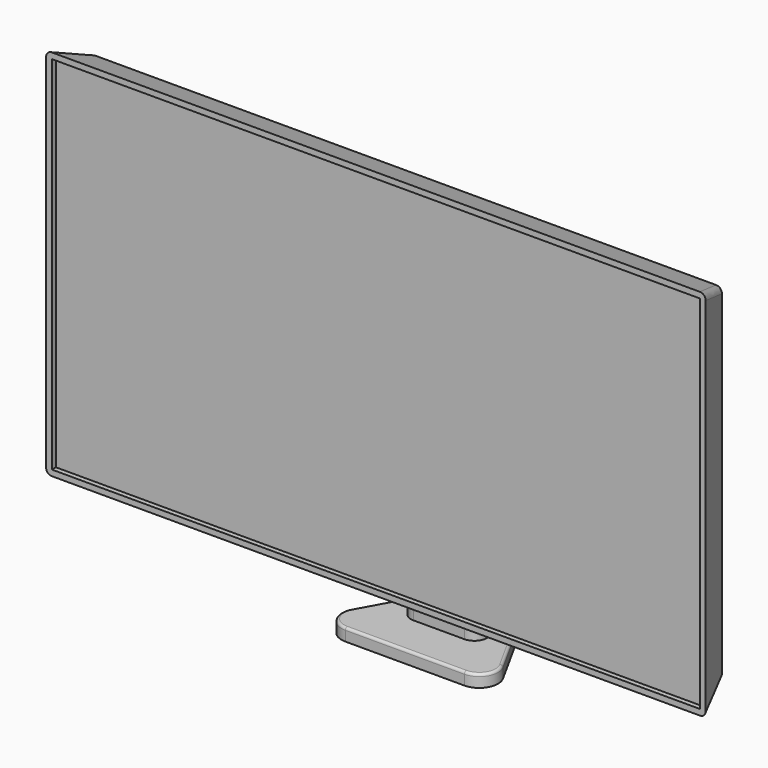
from build123d import *

# Parameters (mm, degrees)
SKETCH002_W     = 530.4
SKETCH002_H     = 300
PAD002_DEPTH    = 30
PAD002_TAPER    = 20
FILLET_R        = 5
SKETCH003_W     = 381.721008
SKETCH003_H     = 52.472431
POCKET_DEPTH    = 20
SKETCH004_R     = 2
PAD003_DEPTH    = 2
SKETCH006_W     = 521.003074
SKETCH006_H     = 290.603074
POCKET001_DEPTH = 5
PAD_DEPTH       = 10
PAD001_DEPTH    = 204
PAD004_DEPTH    = 31.372093
FILLET001_R     = 2
SKETCH007_W     = 521.003074
SKETCH007_H     = 290.603074
PAD005_DEPTH    = 1


with BuildPart() as body001:
    # Sketch002 → Pad002 (new body)
    with BuildSketch(Plane.XZ):
        with Locations((0, 209.74411)):
            Rectangle(SKETCH002_W, SKETCH002_H)
    extrude(amount=-PAD002_DEPTH, taper=PAD002_TAPER)

    # Fillet
    fillet_edges = [body001.edges().sort_by_distance(p)[0] for p in [
        (259.740446, 15, 65.203663),
        (259.740446, 15, 354.284556),
        (-259.740446, 15, 354.284556),
        (-259.740446, 15, 65.203663),
    ]]
    fillet(fillet_edges, radius=FILLET_R)

    # Sketch003 (on Face5 of Fillet) → Pocket (cut)
    with BuildSketch(Plane(origin=(0, 30, 0), x_dir=(1, 0, 0), z_dir=(0, 1, 0))):
        with Locations((0, -81.584297)):
            Rectangle(SKETCH003_W, SKETCH003_H)
    extrude(amount=-POCKET_DEPTH, mode=Mode.SUBTRACT)

    # Sketch004 (on Face5 of Pocket) → Pad003 (join)
    with BuildSketch(Plane(origin=(0, 30, 0), x_dir=(1, 0, 0), z_dir=(0, 1, 0))):
        with BuildLine():
            Line((60, -228.059695), (60, -128.059695))
            ThreePointArc((60, -128.059695), (57.071068, -120.988627), (50, -118.059695))
            Line((50, -118.059695), (-50, -118.059695))
            ThreePointArc((-50, -118.059695), (-57.071068, -120.988627), (-60, -128.059695))
            Line((-60, -128.059695), (-60, -228.059695))
            ThreePointArc((-60, -228.059695), (-57.071068, -235.130763), (-50, -238.059695))
            Line((-50, -238.059695), (50, -238.059695))
            ThreePointArc((50, -238.059695), (57.071068, -235.130763), (60, -228.059695))
        make_face()
        with Locations((50, -228.059695)):
            Circle(SKETCH004_R, mode=Mode.SUBTRACT)
        with Locations((-50, -228.059695)):
            Circle(SKETCH004_R, mode=Mode.SUBTRACT)
        with Locations((50, -128.059695)):
            Circle(SKETCH004_R, mode=Mode.SUBTRACT)
        with Locations((-50, -128.059695)):
            Circle(SKETCH004_R, mode=Mode.SUBTRACT)
    extrude(amount=PAD003_DEPTH)

    # Sketch006 (on Face2 of Pad003) → Pocket001 (cut)
    with BuildSketch(Plane.XZ):
        with Locations((0, 209.74411)):
            Rectangle(SKETCH006_W, SKETCH006_H)
    extrude(amount=-POCKET001_DEPTH, mode=Mode.SUBTRACT)


with BuildPart() as obj1:
    # Sketch → Pad (new body)
    with BuildSketch(Plane.XY):
        with BuildLine():
            Line((-47.845368, 29.113135), (47.845368, 29.113135))
            ThreePointArc((47.845368, 29.113135), (60.785927, 36.497723), (61.011034, 51.395359))
            Line((61.011034, 51.395359), (40.162518, 89.247045))
            ThreePointArc((40.162518, 89.247045), (30.689353, 99.010886), (17.566634, 102.59804))
            Line((17.566634, 102.59804), (-17.566634, 102.59804))
            ThreePointArc((-17.566634, 102.59804), (-30.689353, 99.010886), (-40.162518, 89.247045))
            Line((-40.162518, 89.247045), (-61.011034, 51.395359))
            ThreePointArc((-61.011034, 51.395359), (-60.785927, 36.497723), (-47.845368, 29.113135))
        make_face()
    extrude(amount=PAD_DEPTH)

    # Sketch001 (on Face10 of Pad) → Pad001 (join)
    with BuildSketch(Plane.XY.offset(10)):
        with BuildLine():
            Line((-30.568015, 79.660641), (-30.568015, 73.372093))
            ThreePointArc((-30.568015, 73.372093), (-27.639083, 66.301026), (-20.568015, 63.372093))
            Line((-20.568015, 63.372093), (20.568015, 63.372093))
            ThreePointArc((20.568015, 63.372093), (27.639083, 66.301026), (30.568015, 73.372093))
            Line((30.568015, 73.372093), (30.568015, 79.661921))
            ThreePointArc((30.568015, 79.661921), (28.801196, 85.929459), (24.021012, 90.351394))
            ThreePointArc((24.021012, 90.351394), (-0.000568, 96.1241), (-24.021749, 90.349738))
            ThreePointArc((-24.021749, 90.349738), (-28.801412, 85.927825), (-30.568015, 79.660641))
        make_face()
    extrude(amount=PAD001_DEPTH)

    # Sketch005 (on Face1 of CopyPad003) → Pad004 (join)
    with BuildSketch(Plane(origin=(0, 32, 0), x_dir=(-1, 0, 0), z_dir=(0, 1, 0))):
        with BuildLine():
            Line((-17.105976, 184.304104), (-17.105976, 171.815286))
            ThreePointArc((-17.105976, 171.815286), (-15.642934, 168.28319), (-12.110837, 166.820147))
            Line((-12.110837, 166.820147), (12.110837, 166.820147))
            ThreePointArc((12.110837, 166.820147), (15.642934, 168.28319), (17.105976, 171.815286))
            Line((17.105976, 171.815286), (17.105976, 184.304104))
            ThreePointArc((17.105976, 184.304104), (15.642934, 187.836201), (12.110837, 189.299243))
            Line((12.110837, 189.299243), (-12.110837, 189.299243))
            ThreePointArc((-12.110837, 189.299243), (-15.642934, 187.836201), (-17.105976, 184.304104))
        make_face()
    extrude(amount=PAD004_DEPTH)

    # Fillet001
    fillet001_edges = [obj1.edges().sort_by_distance(p)[0] for p in [
        (60.785927, 36.497723, 10),
    ]]
    fillet(fillet001_edges, radius=FILLET001_R)

    # Fusion: union Body001
    add(body001.part)


with BuildPart() as obj2:
    # Sketch007 (on Face1 of CopyPocket001) → Pad005 (new body)
    with BuildSketch(Plane.XZ.offset(-5)):
        with Locations((0, 209.74411)):
            Rectangle(SKETCH007_W, SKETCH007_H)
    extrude(amount=PAD005_DEPTH)


with BuildPart() as obj1_clone:
    # Clone base: copy of obj1
    add(obj1.part)


with BuildPart() as obj2_clone:
    # Clone001 base: copy of obj2
    add(obj2.part)


solid = Compound([obj1.part, obj2.part, obj1_clone.part, obj2_clone.part])
